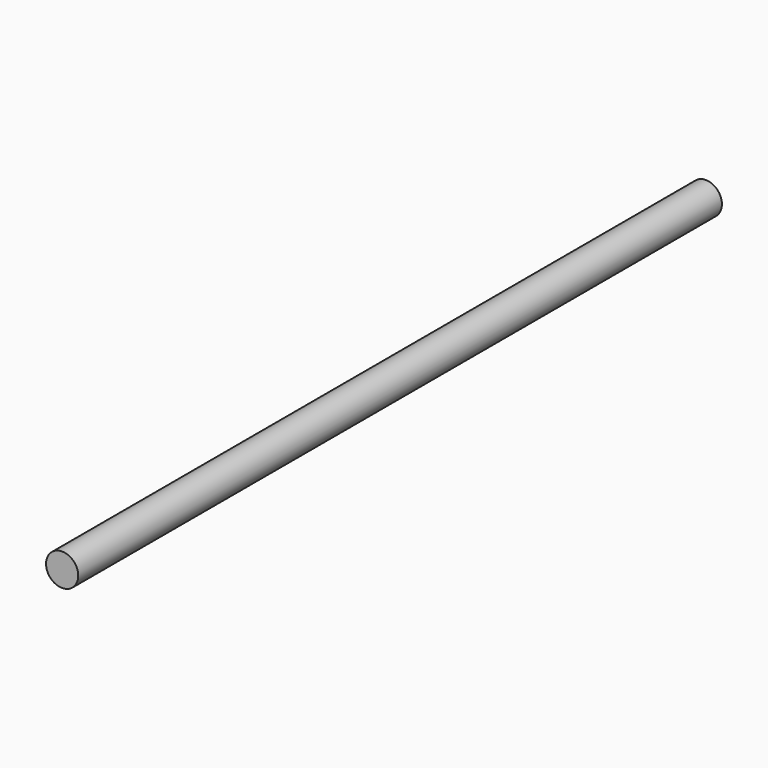
from build123d import *

# Parameters (mm, degrees)
F0_R     = 1
F1_DEPTH = 25


with BuildPart() as f1:
    # F0 (on Front) → F1 (new body, symmetric)
    with BuildSketch(Plane.XZ):
        Circle(F0_R)
        Circle(F0_R)
    extrude(amount=F1_DEPTH, both=True)


solid = f1.part
